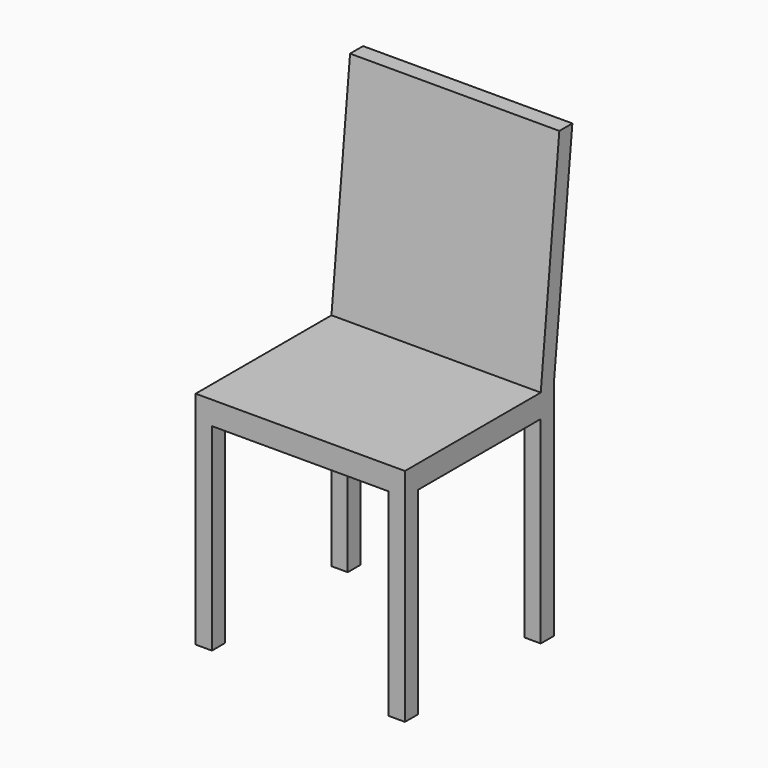
from build123d import *

# Parameters (mm, degrees)
F0_W     = 450
F0_H     = 450
F1_DEPTH = 950
F2_W     = 330
F2_H     = 425
F2_W_2   = 50
F2_H_2   = 50
F3_DEPTH = 450.001
F4_W     = 380
F4_H     = 425
F5_DEPTH = 450.001


with BuildPart() as f1:
    # F0 (on Top) → F1 (new body)
    with BuildSketch(Plane.XY):
        Rectangle(F0_W, F0_H)
    extrude(amount=F1_DEPTH)

    # F2 (on face) → F3 (cut, through all)
    with BuildSketch(Plane.YZ.offset(225)):
        Polygon((-225, 950), (-225, 475), (140, 475), (190, 950), align=None)
        with Locations((-25, 212.5)):
            Rectangle(F2_W, F2_H)
        with Locations((200, 212.5)):
            Rectangle(F2_W_2, F2_H)
        Polygon((225, 950), (175, 475), (225, 475), align=None)
        with Locations((200, 450)):
            Rectangle(F2_W_2, F2_H_2)
    extrude(amount=-F3_DEPTH, mode=Mode.SUBTRACT)

    # F4 (on face) → F5 (cut, through all)
    with BuildSketch(Plane.XZ.offset(225)):
        with Locations((0, 212.5)):
            Rectangle(F4_W, F4_H)
    extrude(amount=-F5_DEPTH, mode=Mode.SUBTRACT)


solid = f1.part
